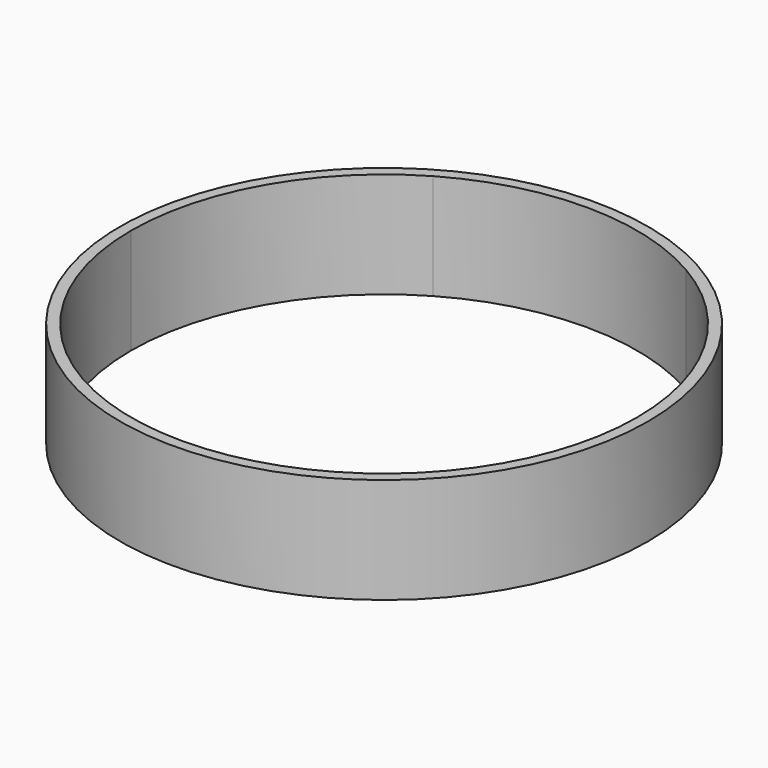
from build123d import *

# Parameters (mm, degrees)
F0_R     = 38.1
F1_DEPTH = 15.24
F3_SCALE = 1.5


with BuildPart() as f1:
    # F0 (on Top) → F1 (new body)
    with BuildSketch(Plane.XY):
        with Locations((-42.0107929352, 37.7116280534)):
            Circle(F0_R)
        with BuildLine():
            ThreePointArc((-23.7545429352, 69.332380609), (-10.3900403795, 55.9678780534), (-5.4982929352, 37.7116280534))
            ThreePointArc((-5.4982929352, 37.7116280534), (-10.3900403795, 19.4553780534), (-23.7545429352, 6.0908754977))
            ThreePointArc((-23.7545429352, 6.0908754977), (-42.0107929352, 1.1991280534), (-60.2670429352, 6.0908754977))
            ThreePointArc((-60.2670429352, 6.0908754977), (-73.6315454908, 19.4553780534), (-78.5232929352, 37.7116280534))
            ThreePointArc((-78.5232929352, 37.7116280534), (-73.6315454908, 55.9678780534), (-60.2670429352, 69.332380609))
            ThreePointArc((-60.2670429352, 69.332380609), (-42.0107929352, 74.2241280534), (-23.7545429352, 69.332380609))
        make_face(mode=Mode.SUBTRACT)
    extrude(amount=F1_DEPTH)


with BuildPart() as f1_1:
    # F3: moved
    add(f1.part.scale(F3_SCALE).moved(Location((21.0048016161, -18.8555214554, 0))))


solid = f1_1.part
